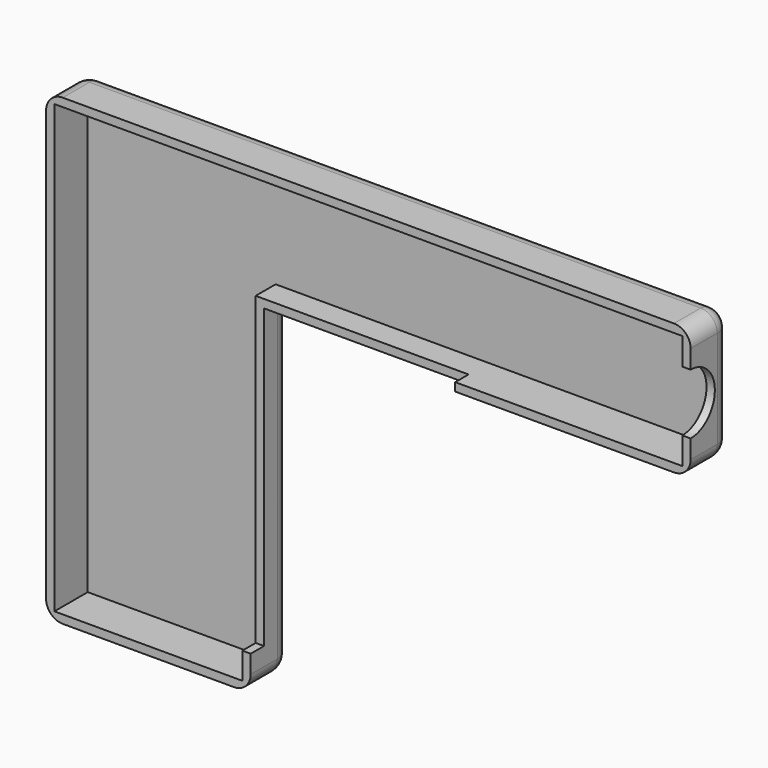
from build123d import *

# Parameters (mm, degrees)
F1_DEPTH = 15.24
F2_T     = -2.54
F3_R     = 5.08
F5_D     = 18.47
F5_DEPTH = 14
F5_TIP   = 5.5489478167
F6_W     = 5.08
F6_H     = 90.6730847065
F7_DEPTH = 43.688
F8_W     = 64.9396401966
F8_H     = 5.08
F9_DEPTH = 25.4


with BuildPart() as f1:
    # F0 (on Front) → F1 (new body)
    with BuildSketch(Plane.XZ):
        Polygon((102.5888894677, 61.8790130322), (-94.0111105323, 61.8790130322), (-94.0111105323, -79.4209869678), (-31.6111105323, -79.4209869678), (-31.6111105323, 21.8790130322), (102.5888894677, 21.8790130322), align=None)
    extrude(amount=F1_DEPTH)

    # F2
    f2_openings = [f1.faces().sort_by_distance(p)[0] for p in [
        (100.16779, -15.24, 41.879013),
    ]]
    offset(amount=F2_T, openings=f2_openings, kind=Kind.INTERSECTION)

    # F3
    f3_edges = [f1.edges().sort_by_distance(p)[0] for p in [
        (-94.011111, -7.62, 61.879013),
        (102.588889, -7.62, 61.879013),
        (102.588889, -7.62, 21.879013),
        (-31.611111, -7.62, -79.420987),
        (-94.011111, -7.62, -79.420987),
        (-94.011111, 0, -8.770987),
        (-31.611111, 0, -28.770987),
        (35.488889, 0, 21.879013),
        (4.288889, 0, 61.879013),
        (-62.811111, 0, -79.420987),
        (102.588889, 0, 41.879013),
    ]]
    fillet(f3_edges, radius=F3_R)

    # F5
    with Locations(Plane.YZ.offset(102.5888894677)):
        with Locations((-15.24, 41.8790130322)):
            Hole(F5_D / 2, depth=F5_DEPTH)
            with Locations((0, 0, -(F5_DEPTH + F5_TIP / 2))):  # 118° drill point
                Cone(0, F5_D / 2, F5_TIP, mode=Mode.SUBTRACT)

    # F6 (on face) → F7 (cut)
    with BuildSketch(Plane.YZ.offset(-31.6111105323)):
        with Locations((-12.7, -23.4575293211)):
            Rectangle(F6_W, F6_H)
    extrude(amount=-F7_DEPTH, mode=Mode.SUBTRACT)

    # F8 (on face) → F9 (cut)
    with BuildSketch(Plane(origin=(0, 0, 21.8790130322), x_dir=(1, 0, 0), z_dir=(0, 0, -1))):
        with Locations((-1.681290434, 12.7)):
            Rectangle(F8_W, F8_H)
    extrude(amount=-F9_DEPTH, mode=Mode.SUBTRACT)


solid = f1.part
